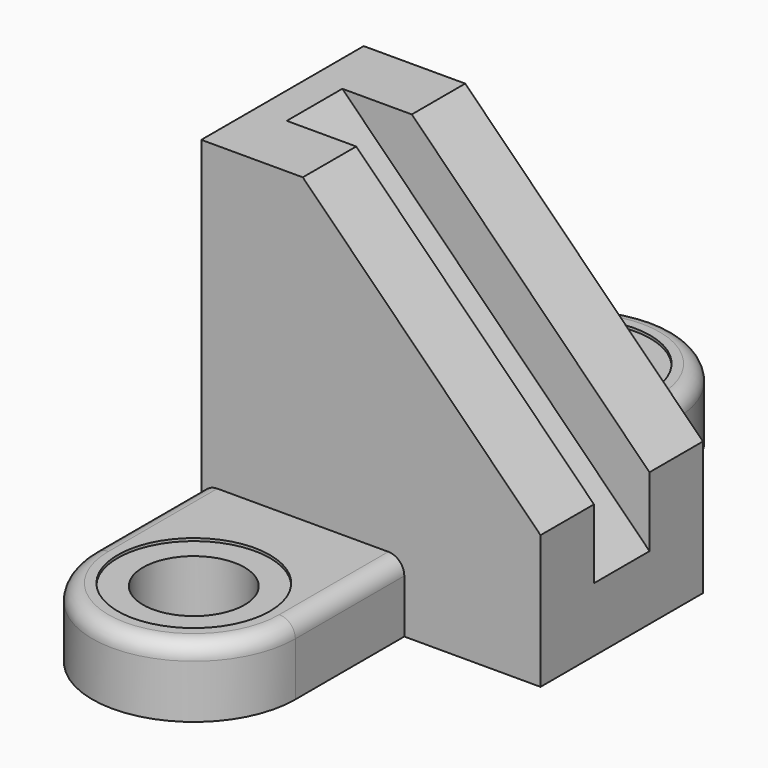
from build123d import *

# Parameters (mm, degrees)
F1_DEPTH  = 38
F4_DEPTH  = 13
F5_DEPTH  = 26
F6_R      = 19
F7_DEPTH  = 26.001
F8_R      = 28.5
F9_DEPTH  = 1
F10_R     = 19
F11_DEPTH = 26.001
F12_R     = 28.5
F13_DEPTH = 1
F14_R     = 6


with BuildPart() as f1:
    # F0 (on Front) → F1 (new body, symmetric)
    with BuildSketch(Plane.XZ):
        Polygon((0, 139), (0, 0), (127, 0), (127, 50), (38, 139), align=None)
    extrude(amount=F1_DEPTH, both=True)

    # F3 (on Front) → F4 (cut, symmetric)
    with BuildSketch(Plane.XZ):
        Polygon((127, 50), (38, 139), (12, 139), (127, 24), align=None)
    extrude(amount=F4_DEPTH, both=True, mode=Mode.SUBTRACT)

    # F2 (on face) → F5 (join)
    with BuildSketch(Plane(origin=(0, 0, 0), x_dir=(1, 0, 0), z_dir=(0, 0, -1))):
        with BuildLine():
            ThreePointArc((0, -89), (38, -127), (76, -89))
            Line((76, -89), (76, 89))
            ThreePointArc((76, 89), (38, 127), (0, 89))
            Line((0, 89), (0, -89))
        make_face()
    extrude(amount=-F5_DEPTH)

    # F6 (on face) → F7 (cut, through all)
    with BuildSketch(Plane.XY.offset(26)):
        with Locations((38, -89)):
            Circle(F6_R)
    extrude(amount=-F7_DEPTH, mode=Mode.SUBTRACT)

    # F8 (on face) → F9 (cut)
    with BuildSketch(Plane.XY.offset(26)):
        with Locations((38, -89)):
            Circle(F8_R)
    extrude(amount=-F9_DEPTH, mode=Mode.SUBTRACT)

    # F10 (on face) → F11 (cut, through all)
    with BuildSketch(Plane.XY.offset(26)):
        with Locations((38, 89)):
            Circle(F10_R)
    extrude(amount=-F11_DEPTH, mode=Mode.SUBTRACT)

    # F12 (on face) → F13 (cut)
    with BuildSketch(Plane.XY.offset(26)):
        with Locations((38, 89)):
            Circle(F12_R)
    extrude(amount=-F13_DEPTH, mode=Mode.SUBTRACT)

    # F14
    f14_edges = [f1.edges().sort_by_distance(p)[0] for p in [
        (76, -63.5, 26),
        (76, 63.5, 26),
        (0, 63.5, 26),
        (0, -63.5, 26),
        (38, -127, 26),
        (38, 127, 26),
    ]]
    fillet(f14_edges, radius=F14_R)


solid = f1.part
